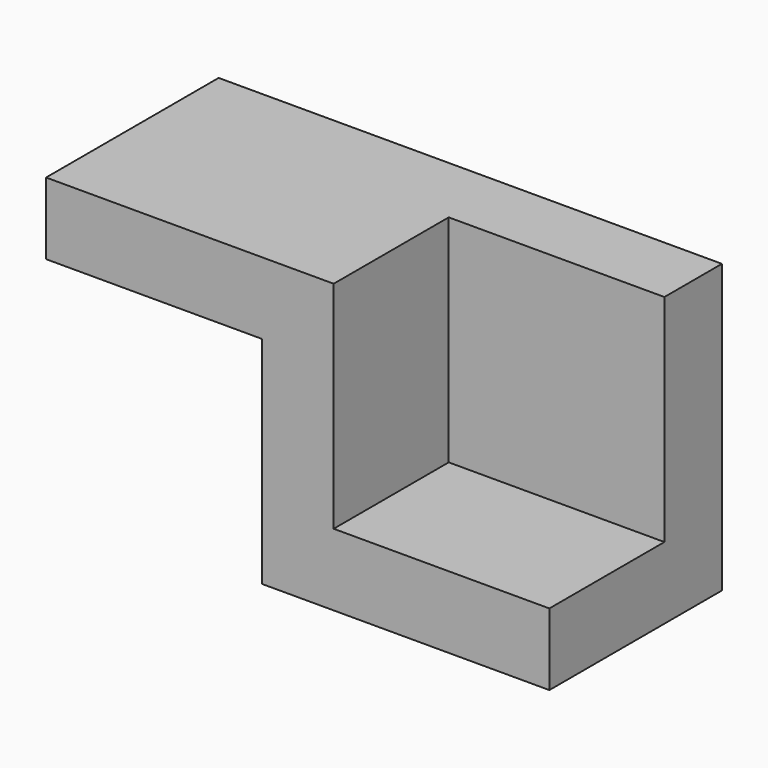
from build123d import *

# Parameters (mm, degrees)
F0_W     = 30
F0_H     = 30
F1_DEPTH = 30
F2_DEPTH = 20


with BuildPart() as f1:
    # F0 (on Front) → F1 (new body)
    with BuildSketch(Plane.XZ):
        Polygon((-30, 40), (-70, 40), (-70, 30), (-40, 30), (-40, 0), (0, 0), (0, 10), (-30, 10), align=None)
        with Locations((-15, 25)):
            Rectangle(F0_W, F0_H)
    extrude(amount=-F1_DEPTH)

    # F0 (on Front) → F2 (cut)
    with BuildSketch(Plane.XZ):
        with Locations((-15, 25)):
            Rectangle(F0_W, F0_H)
    extrude(amount=-F2_DEPTH, mode=Mode.SUBTRACT)


solid = f1.part
